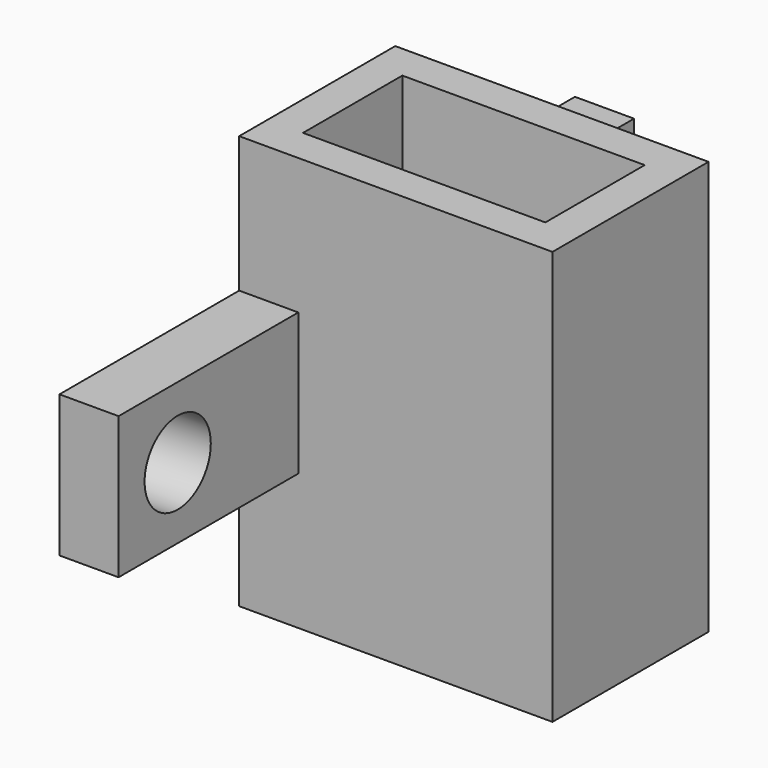
from build123d import *

# Parameters (mm, degrees)
F0_W      = 26.5
F0_H      = 35
F1_DEPTH  = 16.5
F2_W      = 20.5
F2_H      = 10.5
F3_DEPTH  = 35
F4_R      = 2.7
F4_R_2    = 1.65
F5_DEPTH  = 2
F6_W      = 5
F6_H      = 12
F7_DEPTH  = 19
F8_W      = 5
F8_H      = 12
F9_DEPTH  = 19
F10_R     = 3.5
F11_DEPTH = 5
F12_R     = 3.5
F13_DEPTH = 5


with BuildPart() as f1:
    # F0 (on Front) → F1 (new body)
    with BuildSketch(Plane.XZ):
        Rectangle(F0_W, F0_H)
    extrude(amount=F1_DEPTH)

    # F2 (on face) → F3 (cut)
    with BuildSketch(Plane.XY.offset(17.5)):
        with Locations((0, -8.25)):
            Rectangle(F2_W, F2_H)
    extrude(amount=-F3_DEPTH, mode=Mode.SUBTRACT)

    # F4 (on face) → F5 (join)
    with BuildSketch(Plane(origin=(0, 0, 0), x_dir=(-1, 0, 0), z_dir=(0, 1, 0))):
        Circle(F4_R)
        Circle(F4_R_2, mode=Mode.SUBTRACT)
        with Locations((0, 9.5)):
            Circle(F4_R)
        with Locations((0, 9.5)):
            Circle(F4_R_2, mode=Mode.SUBTRACT)
        with Locations((0, -11)):
            Circle(F4_R)
        with Locations((0, -11)):
            Circle(F4_R_2, mode=Mode.SUBTRACT)
    extrude(amount=F5_DEPTH)

    # F6 (on face) → F7 (join)
    with BuildSketch(Plane.XZ.offset(16.5)):
        with Locations((-10.75, 0)):
            Rectangle(F6_W, F6_H)
    extrude(amount=F7_DEPTH)

    # F8 (on face) → F9 (join)
    with BuildSketch(Plane(origin=(0, 0, 0), x_dir=(-1, 0, 0), z_dir=(0, 1, 0))):
        with Locations((10.75, 0)):
            Rectangle(F8_W, F8_H)
    extrude(amount=F9_DEPTH)

    # F10 (on face) → F11 (cut)
    with BuildSketch(Plane.YZ.offset(-8.25)):
        with Locations((12.75, 0)):
            Circle(F10_R)
    extrude(amount=-F11_DEPTH, mode=Mode.SUBTRACT)

    # F12 (on face) → F13 (cut)
    with BuildSketch(Plane.YZ.offset(-8.25)):
        with Locations((-29.25, 0)):
            Circle(F12_R)
    extrude(amount=-F13_DEPTH, mode=Mode.SUBTRACT)


solid = f1.part
